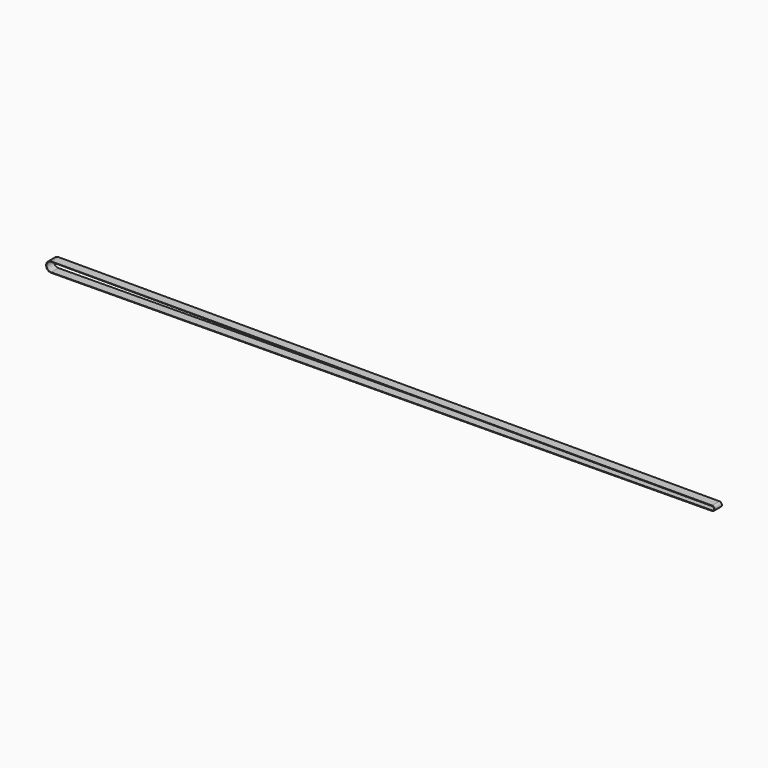
from build123d import *

# Parameters (mm, degrees)
F1_DEPTH = 3.175


with BuildPart() as f1:
    # F0 (on Front) → F1 (new body, symmetric)
    with BuildSketch(Plane.XZ):
        with BuildLine():
            Line((457.2, 3.4925), (0, 3.4925))
            ThreePointArc((0, 3.4925), (-3.4925, 0), (0, -3.4925))
            ThreePointArc((0, -3.4925), (0.027733, -3.49239), (0.055465, -3.49206))
            Line((0.055465, -3.49206), (457.213318, 0.138283))
            ThreePointArc((457.213318, 0.138283), (458.877122, 1.822024), (457.2, 3.4925))
        make_face()
        with BuildLine():
            ThreePointArc((0.025836, -3.174895), (-3.174974, -0.012918), (0, 3.175))
            Line((0, 3.175), (457.200249, 3.085365))
            ThreePointArc((457.200249, 3.085365), (458.47, 1.81524), (457.2, 0.545365))
            Line((457.2, 0.545365), (0.025836, -3.174895))
        make_face(mode=Mode.SUBTRACT)
    extrude(amount=F1_DEPTH, both=True)


solid = f1.part
